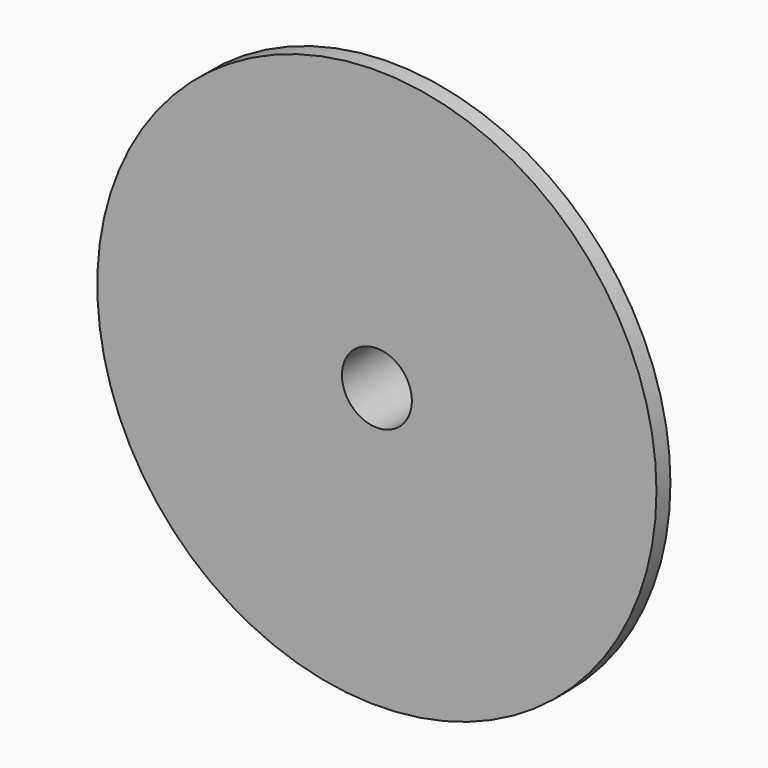
from build123d import *

# Parameters (mm, degrees)
F0_R     = 101.6
F1_DEPTH = 3.175
F2_R     = 25.4
F3_DEPTH = 25.4
F4_R     = 12.7
F5_DEPTH = 63.5


with BuildPart() as f1:
    # F0 (on Front) → F1 (new body, symmetric)
    with BuildSketch(Plane.XZ):
        Circle(F0_R)
    extrude(amount=F1_DEPTH, both=True)

    # F2 (on face) → F3 (join)
    with BuildSketch(Plane.XZ.offset(3.175)):
        Circle(F2_R)
    extrude(amount=-F3_DEPTH)

    # F4 (on face) → F5 (cut, symmetric)
    with BuildSketch(Plane(origin=(0, 3.175, 0), x_dir=(-1, 0, 0), z_dir=(0, 1, 0))):
        Circle(F4_R)
    extrude(amount=F5_DEPTH, both=True, mode=Mode.SUBTRACT)


solid = f1.part
